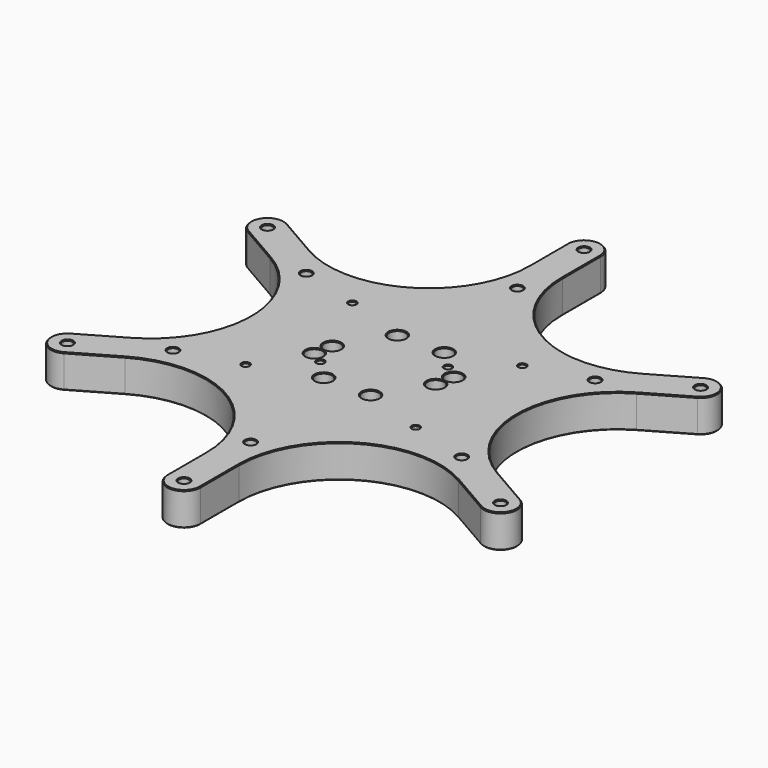
from build123d import *

# Parameters (mm, degrees)
F0_W      = 112
F0_H      = 90
F0_R      = 2
F0_R_2    = 2.5
F0_R_3    = 5
F1_DEPTH  = 20
F2_SIZE   = 2.5
F3_R      = 5
F4_DEPTH  = 6
F5_R      = 4.5
F6_DEPTH  = 6
F7_R      = 3
F8_DEPTH  = 20
F9_R      = 6
F10_DEPTH = 10
F11_SIZE  = 0.5


with BuildPart() as f1:
    # F0 (on Top) → F1 (new body)
    with BuildSketch(Plane.XY):
        Rectangle(F0_W, F0_H)
        with Locations((-51, -40)):
            Circle(F0_R, mode=Mode.SUBTRACT)
        with Locations((-14.073705, -27.621202)):
            Circle(F0_R_2, mode=Mode.SUBTRACT)
        with Locations((-33, -11)):
            Circle(F0_R_3, mode=Mode.SUBTRACT)
        with Locations((-25.44, -15.9)):
            Circle(F0_R, mode=Mode.SUBTRACT)
        with Locations((14.073705, -27.621202)):
            Circle(F0_R_2, mode=Mode.SUBTRACT)
        with Locations((51, -40)):
            Circle(F0_R, mode=Mode.SUBTRACT)
        with Locations((-31, 0)):
            Circle(F0_R_2, mode=Mode.SUBTRACT)
        with Locations((-51, 40)):
            Circle(F0_R, mode=Mode.SUBTRACT)
        with Locations((-14.073705, 27.621202)):
            Circle(F0_R_2, mode=Mode.SUBTRACT)
        with Locations((24.57, 17.21)):
            Circle(F0_R, mode=Mode.SUBTRACT)
        with Locations((31, 0)):
            Circle(F0_R_2, mode=Mode.SUBTRACT)
        with Locations((33, 11)):
            Circle(F0_R_3, mode=Mode.SUBTRACT)
        with Locations((14.073705, 27.621202)):
            Circle(F0_R_2, mode=Mode.SUBTRACT)
        with Locations((51, 40)):
            Circle(F0_R, mode=Mode.SUBTRACT)
    extrude(amount=F1_DEPTH)

    # F2
    f2_edges = [f1.edges().sort_by_distance(p)[0] for p in [
        (-56, -45, 10),
        (-56, 45, 10),
        (56, -45, 10),
        (56, 45, 10),
    ]]
    chamfer(f2_edges, length=F2_SIZE)

    # F3 (on face) → F4 (cut)
    with BuildSketch(Plane.XY.offset(20)):
        with Locations((-14.073705, 27.621202)):
            Circle(F3_R)
        with Locations((14.073705, 27.621202)):
            Circle(F3_R)
        with Locations((31, 0)):
            Circle(F3_R)
        with Locations((14.073705, -27.621202)):
            Circle(F3_R)
        with Locations((-14.073705, -27.621202)):
            Circle(F3_R)
        with Locations((-31, 0)):
            Circle(F3_R)
    extrude(amount=-F4_DEPTH, mode=Mode.SUBTRACT)

    # F5 (on face) → F6 (cut)
    with BuildSketch(Plane(origin=(0, 0, 0), x_dir=(1, 0, 0), z_dir=(0, 0, -1))):
        with Locations((-51, 40)):
            Circle(F5_R)
        with Locations((51, 40)):
            Circle(F5_R)
        with Locations((51, -40)):
            Circle(F5_R)
        with Locations((-51, -40)):
            Circle(F5_R)
    extrude(amount=-F6_DEPTH, mode=Mode.SUBTRACT)

    # F7 (on face) → F8 (join, through all)
    with BuildSketch(Plane(origin=(0, 0, 0), x_dir=(1, 0, 0), z_dir=(0, 0, -1))):
        with BuildLine():
            ThreePointArc((-10, 121.243557), (-40, 69.282032), (-100, 69.282032))
            Line((-100, 69.282032), (-124.903811, 83.660254))
            ThreePointArc((-124.903811, 83.660254), (-138.564065, 80), (-134.903811, 66.339746))
            Line((-134.903811, 66.339746), (-110, 51.961524))
            ThreePointArc((-110, 51.961524), (-80, 0), (-110, -51.961524))
            Line((-110, -51.961524), (-134.903811, -66.339746))
            ThreePointArc((-134.903811, -66.339746), (-138.564065, -80), (-124.903811, -83.660254))
            Line((-124.903811, -83.660254), (-100, -69.282032))
            ThreePointArc((-100, -69.282032), (-40, -69.282032), (-10, -121.243557))
            Line((-10, -121.243557), (-10, -150))
            ThreePointArc((-10, -150), (0, -160), (10, -150))
            Line((10, -150), (10, -121.243557))
            ThreePointArc((10, -121.243557), (40, -69.282032), (100, -69.282032))
            Line((100, -69.282032), (124.903811, -83.660254))
            ThreePointArc((124.903811, -83.660254), (138.564065, -80), (134.903811, -66.339746))
            Line((134.903811, -66.339746), (110, -51.961524))
            ThreePointArc((110, -51.961524), (80, 0), (110, 51.961524))
            Line((110, 51.961524), (134.903811, 66.339746))
            ThreePointArc((134.903811, 66.339746), (138.564065, 80), (124.903811, 83.660254))
            Line((124.903811, 83.660254), (100, 69.282032))
            ThreePointArc((100, 69.282032), (40, 69.282032), (10, 121.243557))
            Line((10, 121.243557), (10, 150))
            ThreePointArc((10, 150), (0, 160), (-10, 150))
            Line((-10, 150), (-10, 121.243557))
        make_face()
        with Locations((-129.903811, -75)):
            Circle(F7_R, mode=Mode.SUBTRACT)
        with Locations((-86.60254, -50)):
            Circle(F7_R, mode=Mode.SUBTRACT)
        with Locations((0, -150)):
            Circle(F7_R, mode=Mode.SUBTRACT)
        with Locations((0, -100)):
            Circle(F7_R, mode=Mode.SUBTRACT)
        with Locations((86.60254, -50)):
            Circle(F7_R, mode=Mode.SUBTRACT)
        with Locations((129.903811, -75)):
            Circle(F7_R, mode=Mode.SUBTRACT)
        with Locations((-129.903811, 75)):
            Circle(F7_R, mode=Mode.SUBTRACT)
        with Locations((-86.60254, 50)):
            Circle(F7_R, mode=Mode.SUBTRACT)
        Polygon((53.5, -45), (-53.5, -45), (-56, -42.5), (-56, 42.5), (-53.5, 45), (53.5, 45), (56, 42.5), (56, -42.5), align=None, mode=Mode.SUBTRACT)
        with Locations((86.60254, 50)):
            Circle(F7_R, mode=Mode.SUBTRACT)
        with Locations((129.903811, 75)):
            Circle(F7_R, mode=Mode.SUBTRACT)
        with Locations((0, 100)):
            Circle(F7_R, mode=Mode.SUBTRACT)
        with Locations((0, 150)):
            Circle(F7_R, mode=Mode.SUBTRACT)
    extrude(amount=-F8_DEPTH)

    # F9 (on face) → F10 (cut)
    with BuildSketch(Plane(origin=(0, 0, 0), x_dir=(1, 0, 0), z_dir=(0, 0, -1))):
        with Locations((0, 150)):
            Circle(F9_R)
        with Locations((0, 100)):
            Circle(F9_R)
        with Locations((129.903811, 75)):
            Circle(F9_R)
        with Locations((86.60254, 50)):
            Circle(F9_R)
        with Locations((86.60254, -50)):
            Circle(F9_R)
        with Locations((129.903811, -75)):
            Circle(F9_R)
        with Locations((0, -100)):
            Circle(F9_R)
        with Locations((0, -150)):
            Circle(F9_R)
        with Locations((-86.60254, -50)):
            Circle(F9_R)
        with Locations((-129.903811, -75)):
            Circle(F9_R)
        with Locations((-86.60254, 50)):
            Circle(F9_R)
        with Locations((-129.903811, 75)):
            Circle(F9_R)
    extrude(amount=-F10_DEPTH, mode=Mode.SUBTRACT)

    # F11
    f11_edges = [f1.edges().sort_by_distance(p)[0] for p in [
        (-53, -40, 20),
        (-19.073705, -27.621202, 20),
        (-38, -11, 20),
        (-27.44, -15.9, 20),
        (9.073705, -27.621202, 20),
        (49, -40, 20),
        (-36, 0, 20),
        (-53, 40, 20),
        (-19.073705, 27.621202, 20),
        (22.57, 17.21, 20),
        (26, 0, 20),
        (28, 11, 20),
        (9.073705, 27.621202, 20),
        (49, 40, 20),
        (112.451905, -76.471143, 20),
        (138.564065, -80, 20),
        (122.451905, -59.150635, 20),
        (80, 0, 20),
        (122.451905, 59.150635, 20),
        (138.564065, 80, 20),
        (112.451905, 76.471143, 20),
        (40, 69.282032, 20),
        (10, 135.621778, 20),
        (0, 160, 20),
        (-10, 135.621778, 20),
        (-40, 69.282032, 20),
        (-112.451905, 76.471143, 20),
        (-138.564065, 80, 20),
        (-122.451905, 59.150635, 20),
        (-80, 0, 20),
        (-122.451905, -59.150635, 20),
        (-138.564065, -80, 20),
        (-112.451905, -76.471143, 20),
        (-40, -69.282032, 20),
        (-10, -135.621778, 20),
        (0, -160, 20),
        (10, -135.621778, 20),
        (40, -69.282032, 20),
        (-132.903811, 75, 20),
        (-89.60254, 50, 20),
        (-3, 150, 20),
        (-3, 100, 20),
        (83.60254, 50, 20),
        (126.903811, 75, 20),
        (-132.903811, -75, 20),
        (-89.60254, -50, 20),
        (-3, -150, 20),
        (126.903811, -75, 20),
        (-3, -100, 20),
        (83.60254, -50, 20),
        (112.451905, -76.471143, 0),
        (138.564065, -80, 0),
        (40, -69.282032, 0),
        (122.451905, -59.150635, 0),
        (10, -135.621778, 0),
        (80, 0, 0),
        (0, -160, 0),
        (122.451905, 59.150635, 0),
        (-10, -135.621778, 0),
        (138.564065, 80, 0),
        (-40, -69.282032, 0),
        (112.451905, 76.471143, 0),
        (-112.451905, -76.471143, 0),
        (40, 69.282032, 0),
        (-138.564065, -80, 0),
        (10, 135.621778, 0),
        (-122.451905, -59.150635, 0),
        (0, 160, 0),
        (-80, 0, 0),
        (-10, 135.621778, 0),
        (-122.451905, 59.150635, 0),
        (-40, 69.282032, 0),
        (-138.564065, 80, 0),
        (-112.451905, 76.471143, 0),
        (-135.903811, -75, 0),
        (-92.60254, -50, 0),
        (-55.5, -40, 0),
        (-16.573705, -27.621202, 0),
        (-38, -11, 0),
        (-27.44, -15.9, 0),
        (-6, -150, 0),
        (-6, -100, 0),
        (46.5, -40, 0),
        (11.573705, -27.621202, 0),
        (80.60254, -50, 0),
        (123.903811, -75, 0),
        (-135.903811, 75, 0),
        (-92.60254, 50, 0),
        (-33.5, 0, 0),
        (-16.573705, 27.621202, 0),
        (-55.5, 40, 0),
        (28.5, 0, 0),
        (22.57, 17.21, 0),
        (28, 11, 0),
        (11.573705, 27.621202, 0),
        (46.5, 40, 0),
        (80.60254, 50, 0),
        (123.903811, 75, 0),
        (-6, 100, 0),
        (-6, 150, 0),
    ]]
    chamfer(f11_edges, length=F11_SIZE)


solid = f1.part
